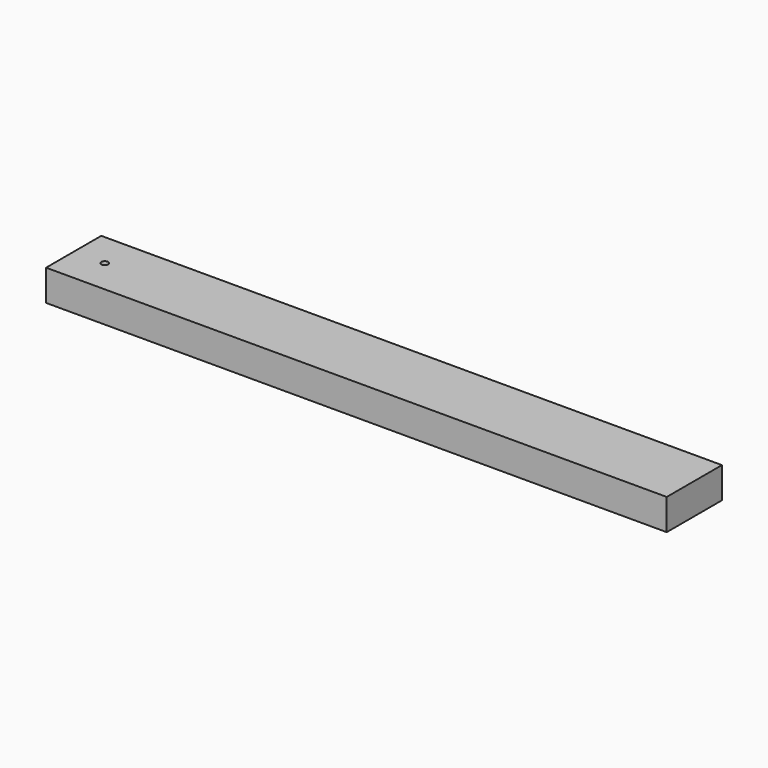
from build123d import *

# Parameters (mm, degrees)
F0_W     = 900
F0_H     = 100
F1_DEPTH = 45
F3_DEPTH = 130.1


with BuildPart() as f1:
    # F0 (on Top) → F1 (new body)
    with BuildSketch(Plane.XY):
        Rectangle(F0_W, F0_H)
    extrude(amount=F1_DEPTH)

    # F2 (on face) → F3 (cut)
    with BuildSketch(Plane.XY.offset(45)):
        with BuildLine():
            ThreePointArc((-410, 0), (-405, -5), (-400, 0))
            ThreePointArc((-400, 0), (-405, 5), (-410, 0))
        make_face()
    extrude(amount=-F3_DEPTH, mode=Mode.SUBTRACT)


solid = f1.part
